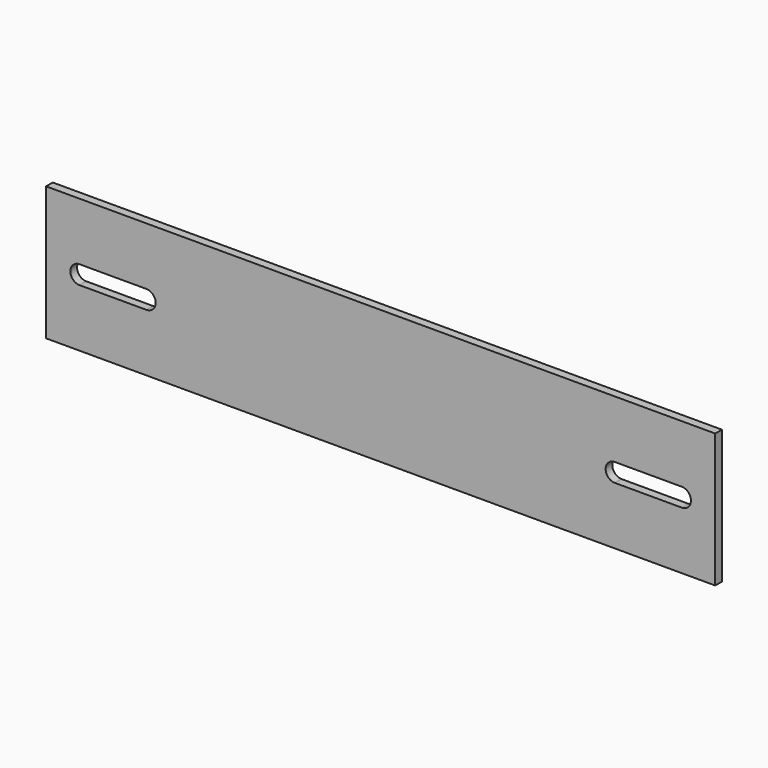
from build123d import *

# Parameters (mm, degrees)
F0_W     = 254
F0_H     = 50.8
F1_DEPTH = 3.175
F3_DEPTH = 25.4


with BuildPart() as f1:
    # F0 (on Front) → F1 (new body)
    with BuildSketch(Plane.XZ):
        Rectangle(F0_W, F0_H)
    extrude(amount=F1_DEPTH)

    # F2 (on face) → F3 (cut)
    with BuildSketch(Plane.XZ.offset(3.175)):
        with BuildLine():
            Line((-88.9, 3.4925), (-114.3, 3.4925))
            ThreePointArc((-114.3, 3.4925), (-117.7925, 0), (-114.3, -3.4925))
            Line((-114.3, -3.4925), (-88.9, -3.4925))
            ThreePointArc((-88.9, -3.4925), (-85.4075, 0), (-88.9, 3.4925))
        make_face()
        with BuildLine():
            Line((88.9, -3.4925), (114.3, -3.4925))
            ThreePointArc((114.3, -3.4925), (117.7925, 0), (114.3, 3.4925))
            Line((114.3, 3.4925), (88.9, 3.4925))
            ThreePointArc((88.9, 3.4925), (85.4075, 0), (88.9, -3.4925))
        make_face()
    extrude(amount=-F3_DEPTH, mode=Mode.SUBTRACT)


solid = f1.part
